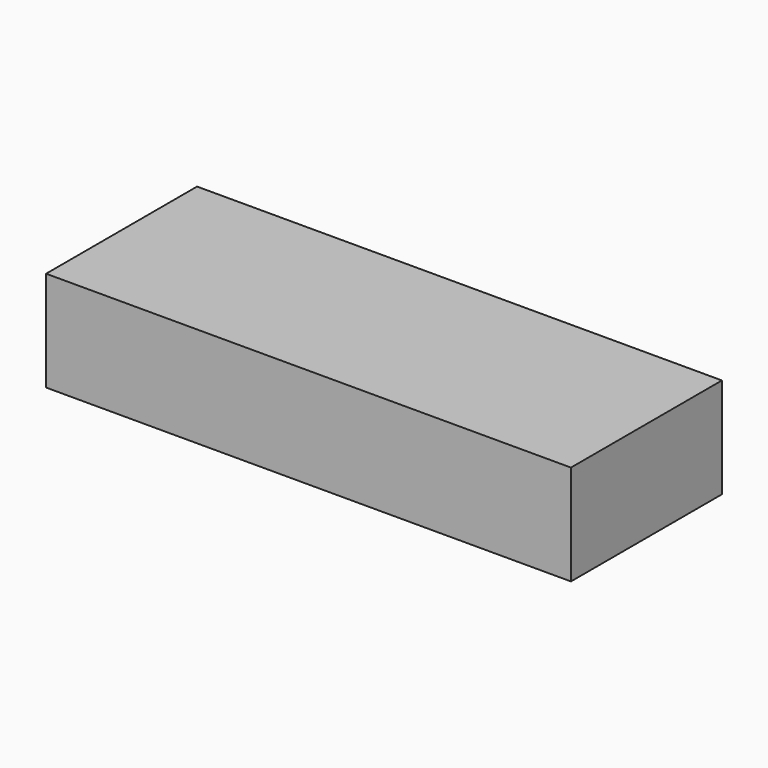
from build123d import *

# Parameters (mm, degrees)
SKETCH_W  = 178
SKETCH_H  = 64
PAD_DEPTH = 34


with BuildPart() as part:
    # Sketch → Pad (new body)
    with BuildSketch(Plane.XY):
        with Locations((-89, 32)):
            Rectangle(SKETCH_W, SKETCH_H)
    extrude(amount=PAD_DEPTH)


solid = part.part
